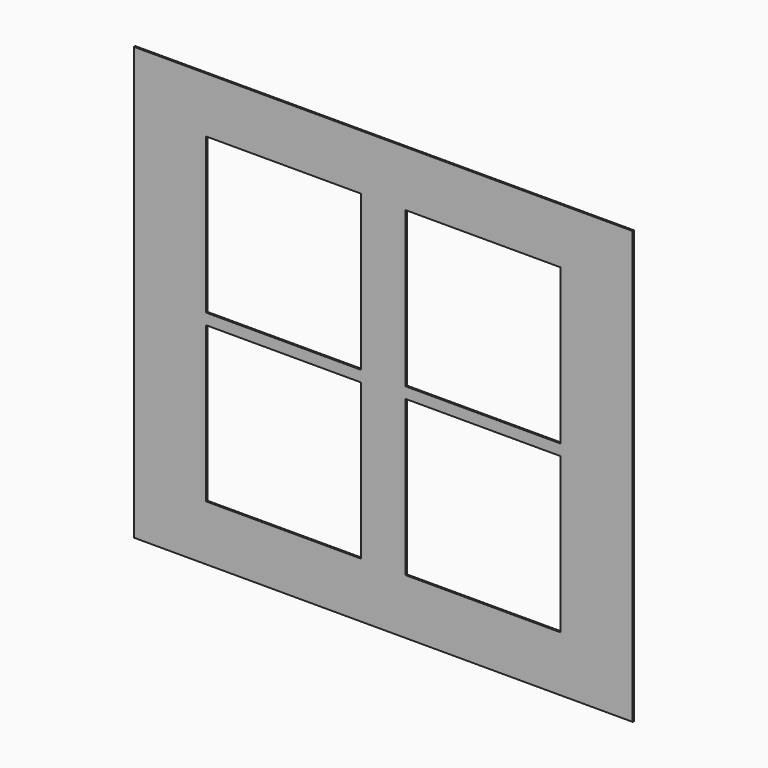
from build123d import *

# Parameters (mm, degrees)
F0_W     = 900
F0_H     = 780
F1_DEPTH = 3
F2_W     = 280
F2_H     = 280
F3_DEPTH = 5


with BuildPart() as f1:
    # F0 (on Front) → F1 (new body)
    with BuildSketch(Plane.XZ):
        with Locations((-210.081005, 390)):
            Rectangle(F0_W, F0_H)
    extrude(amount=F1_DEPTH)

    # F2 (on face) → F3 (cut)
    with BuildSketch(Plane.XZ.offset(3)):
        with Locations((-390.081005, 540)):
            Rectangle(F2_W, F2_H)
        with Locations((-30.081005, 540)):
            Rectangle(F2_W, F2_H)
        with Locations((-30.081005, 240)):
            Rectangle(F2_W, F2_H)
        with Locations((-390.081005, 240)):
            Rectangle(F2_W, F2_H)
    extrude(amount=-F3_DEPTH, mode=Mode.SUBTRACT)


solid = f1.part
